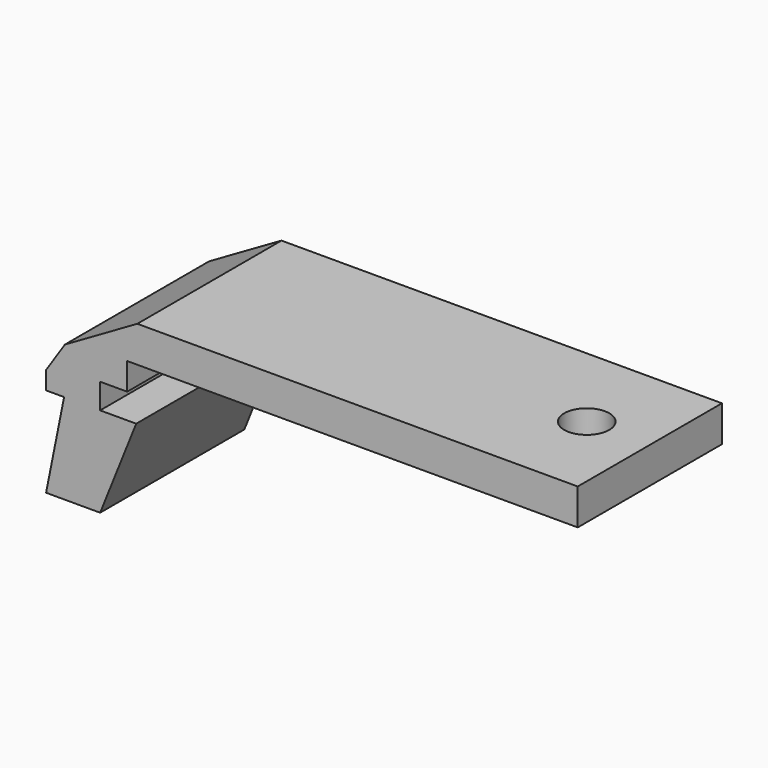
from build123d import *

# Parameters (mm, degrees)
F1_DEPTH = 10
F2_R     = 1.25
F3_DEPTH = 25


with BuildPart() as f1:
    # F0 (on Front) → F1 (new body)
    with BuildSketch(Plane.XZ):
        Polygon((-3, 0), (0, 0), (2, 5), (0, 5), (0, 6.4), (1.5, 6.4), (1.5, 7.9), (26.5, 7.9), (26.5, 9.9), (2.062178, 9.9), (-1.955755, 7.580245), (-3, 6), (-3, 5), (-2, 5), align=None)
    extrude(amount=F1_DEPTH)

    # F2 (on face) → F3 (cut)
    with BuildSketch(Plane.XY.offset(9.9)):
        with Locations((23, -5)):
            Circle(F2_R)
    extrude(amount=-F3_DEPTH, mode=Mode.SUBTRACT)


solid = f1.part
